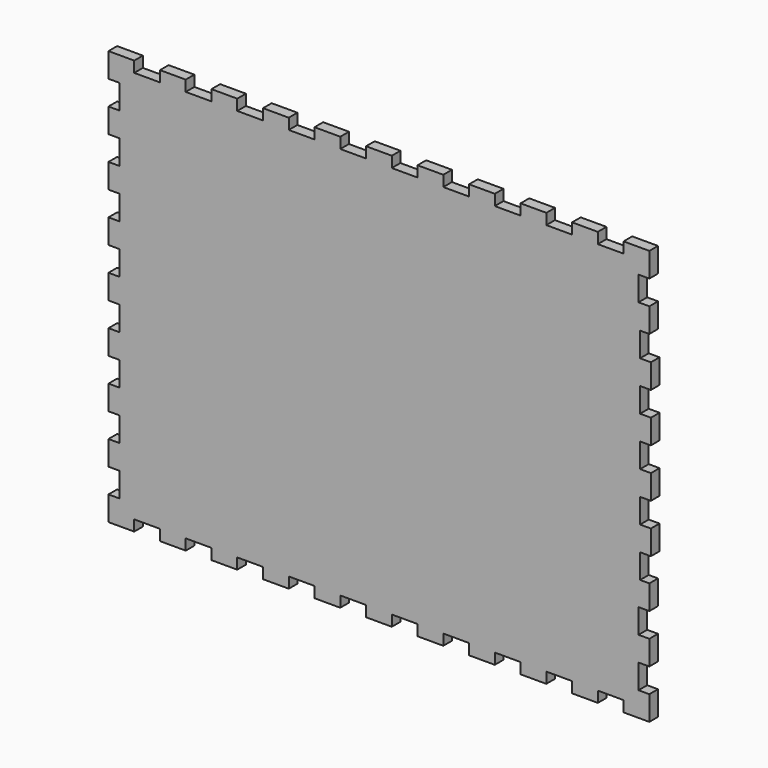
from build123d import *

# Parameters (mm, degrees)
F1_DEPTH = 6


with BuildPart() as f1:
    # F0 (on Front) → F1 (new body)
    with BuildSketch(Plane.XZ):
        Polygon((-136.143627, 115), (-150.429341, 115), (-150.429341, 101.470588), (-144.429341, 101.470588), (-144.429341, 87.941176), (-150.429341, 87.941176), (-150.429341, 74.411765), (-144.429341, 74.411765), (-144.429341, 60.882353), (-150.429341, 60.882353), (-150.429341, 47.352941), (-144.429341, 47.352941), (-144.429341, 33.823529), (-150.429341, 33.823529), (-150.429341, 20.294118), (-144.429341, 20.294118), (-144.429341, 6.764706), (-150.429341, 6.764706), (-150.429341, -6.764706), (-144.429341, -6.764706), (-144.429341, -20.294118), (-150.429341, -20.294118), (-150.429341, -33.823529), (-144.429341, -33.823529), (-144.429341, -47.352941), (-150.429341, -47.352941), (-150.429341, -60.882353), (-144.429341, -60.882353), (-144.429341, -74.411765), (-150.429341, -74.411765), (-150.429341, -87.941176), (-144.429341, -87.941176), (-144.429341, -101.470588), (-150.429341, -101.470588), (-150.429341, -115), (-136.143627, -115), (-136.143627, -109), (-121.857913, -109), (-121.857913, -115), (-107.572198, -115), (-107.572198, -109), (-93.286484, -109), (-93.286484, -115), (-79.00077, -115), (-79.00077, -109), (-64.715055, -109), (-64.715055, -115), (-50.429341, -115), (-50.429341, -109), (-36.143627, -109), (-36.143627, -115), (-21.857913, -115), (-21.857913, -109), (-7.572198, -109), (-7.572198, -115), (6.713516, -115), (6.713516, -109), (20.99923, -109), (20.99923, -115), (35.284945, -115), (35.284945, -109), (49.570659, -109), (49.570659, -115), (63.856373, -115), (63.856373, -109), (78.142087, -109), (78.142087, -115), (92.427802, -115), (92.427802, -109), (106.713516, -109), (106.713516, -115), (120.99923, -115), (120.99923, -109), (135.284945, -109), (135.284945, -115), (149.570659, -115), (149.570659, -101.470588), (143.570659, -101.470588), (143.570659, -87.941176), (149.570659, -87.941176), (149.570659, -74.411765), (143.570659, -74.411765), (143.570659, -60.882353), (149.570659, -60.882353), (149.570659, -47.352941), (144.429341, -47.352941), (144.429341, -33.823529), (150.429341, -33.823529), (150.429341, -20.294118), (144.429341, -20.294118), (144.429341, -6.764706), (150.429341, -6.764706), (150.429341, 6.764706), (144.429341, 6.764706), (144.429341, 20.294118), (150.429341, 20.294118), (150.429341, 33.823529), (144.429341, 33.823529), (144.429341, 47.352941), (150.429341, 47.352941), (150.429341, 60.882353), (144.429341, 60.882353), (144.429341, 74.411765), (149.570659, 74.411765), (149.570659, 87.941176), (143.570659, 87.941176), (143.570659, 101.470588), (149.570659, 101.470588), (149.570659, 115), (135.284945, 115), (135.284945, 109), (120.99923, 109), (120.99923, 115), (106.713516, 115), (106.713516, 109), (92.427802, 109), (92.427802, 115), (78.142087, 115), (78.142087, 109), (63.856373, 109), (63.856373, 115), (49.570659, 115), (49.570659, 109), (35.284945, 109), (35.284945, 115), (20.99923, 115), (20.99923, 109), (6.713516, 109), (6.713516, 115), (-7.572198, 115), (-7.572198, 109), (-21.857913, 109), (-21.857913, 115), (-36.143627, 115), (-36.143627, 109), (-50.429341, 109), (-50.429341, 115), (-64.715055, 115), (-64.715055, 109), (-79.00077, 109), (-79.00077, 115), (-93.286484, 115), (-93.286484, 109), (-107.572198, 109), (-107.572198, 115), (-121.857913, 115), (-121.857913, 109), (-136.143627, 109), align=None)
    extrude(amount=F1_DEPTH)


solid = f1.part
